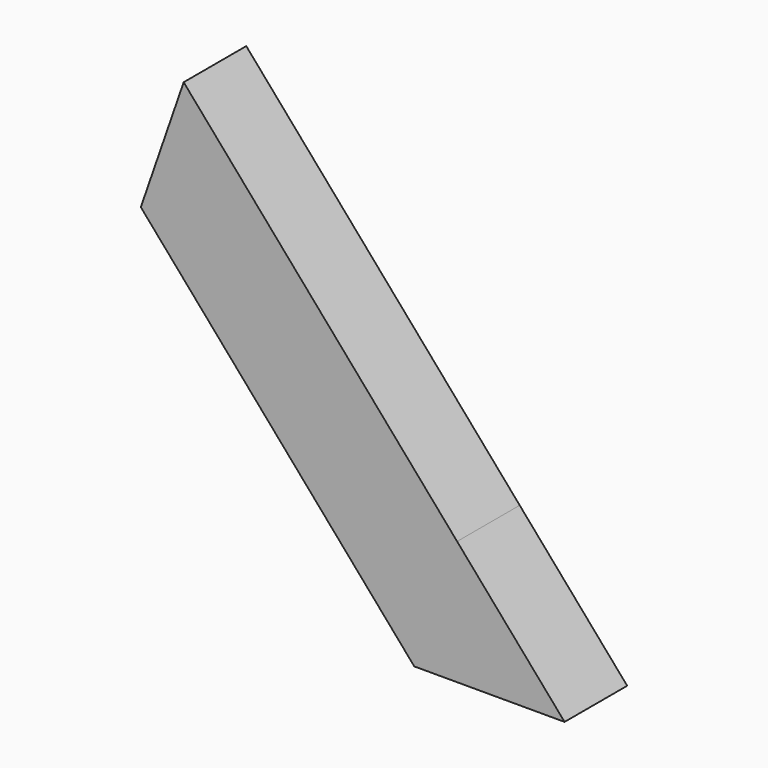
from build123d import *

# Parameters (mm, degrees)
F1_DEPTH = 37.5


with BuildPart() as f1:
    # F0 (on Front) → F1 (new body, symmetric)
    with BuildSketch(Plane.XZ):
        Polygon((99.613749, -334.373749), (-162.507823, -32.078042), (-203.583934, -150.890968), (58.537638, -453.186675), align=None)
        Polygon((202.636817, -453.186675), (99.613749, -334.373749), (58.537638, -453.186675), align=None)
    extrude(amount=F1_DEPTH, both=True)


solid = f1.part
